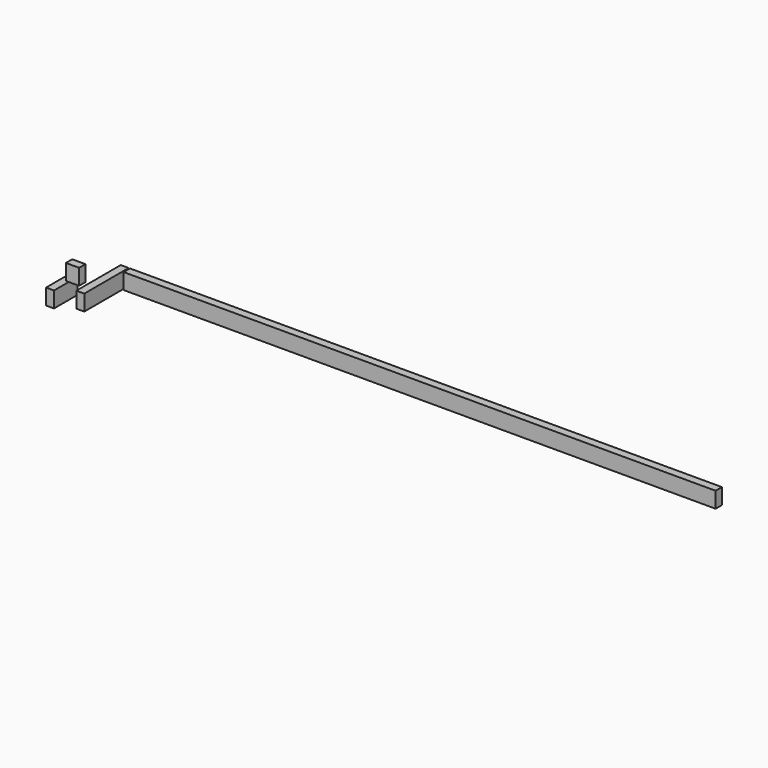
from build123d import *

# Parameters (mm, degrees)
F0_W     = 30
F0_H     = 60
F1_DEPTH = 2240
F2_W     = 30
F2_H     = 60
F3_DEPTH = 210
F4_W     = 30
F4_H     = 60
F5_DEPTH = 50
F6_W     = 30
F6_H     = 60
F7_DEPTH = 110


with BuildPart() as f1:
    # F0 (on Right) → F1 (new body)
    with BuildSketch(Plane.YZ):
        with Locations((-15, -0.129258)):
            Rectangle(F0_W, F0_H)
    extrude(amount=F1_DEPTH)


with BuildPart() as f3:
    # F2 (on Front) → F3 (new body)
    with BuildSketch(Plane.XZ):
        with Locations((-20.084896, -0.327069)):
            Rectangle(F2_W, F2_H)
    extrude(amount=F3_DEPTH)


with BuildPart() as f5:
    # F4 (on Right) → F5 (new body)
    with BuildSketch(Plane.YZ):
        with Locations((-288.141652, 141.449294)):
            Rectangle(F4_W, F4_H)
    extrude(amount=F5_DEPTH)


with BuildPart() as f7:
    # F6 (on Front) → F7 (new body)
    with BuildSketch(Plane.XZ):
        with Locations((-214.594885, -93.781063)):
            Rectangle(F6_W, F6_H)
    extrude(amount=F7_DEPTH)


solid = Compound([f1.part, f3.part, f5.part, f7.part])
